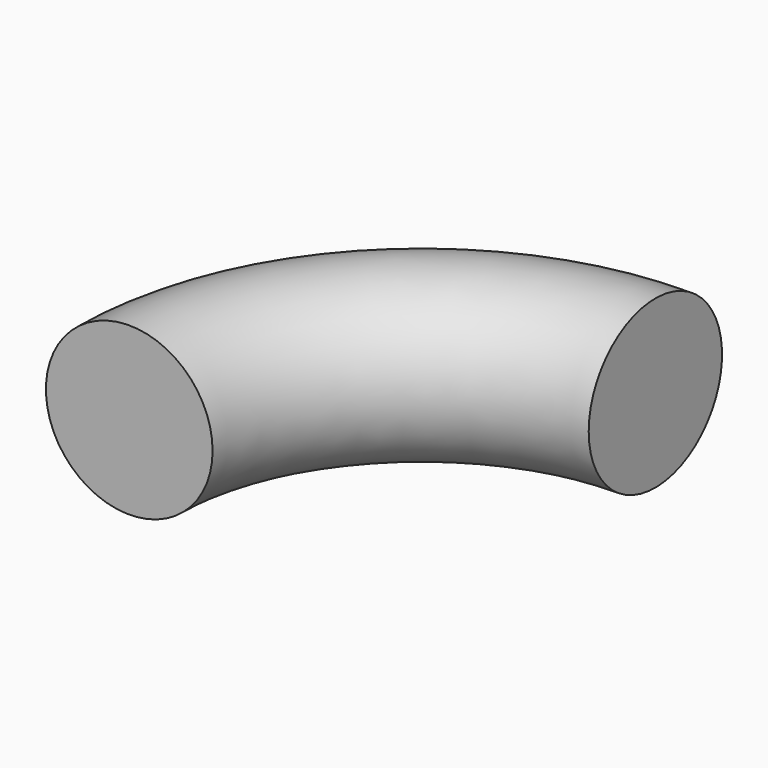
from build123d import *

# Parameters (mm, degrees)
F0_R = 0.635


with BuildPart() as f2:
    # F2: sweep along a path in F1
    with BuildLine(Plane.XY) as f2_path:
        ThreePointArc((0, 0), (0.6523331298, 1.5748714892), (2.227204619, 2.227204619))
    # F0 (on Front) → F2 (sweep)
    with BuildSketch(Plane.XZ):
        Circle(F0_R)
    sweep(path=f2_path.line)


solid = f2.part
